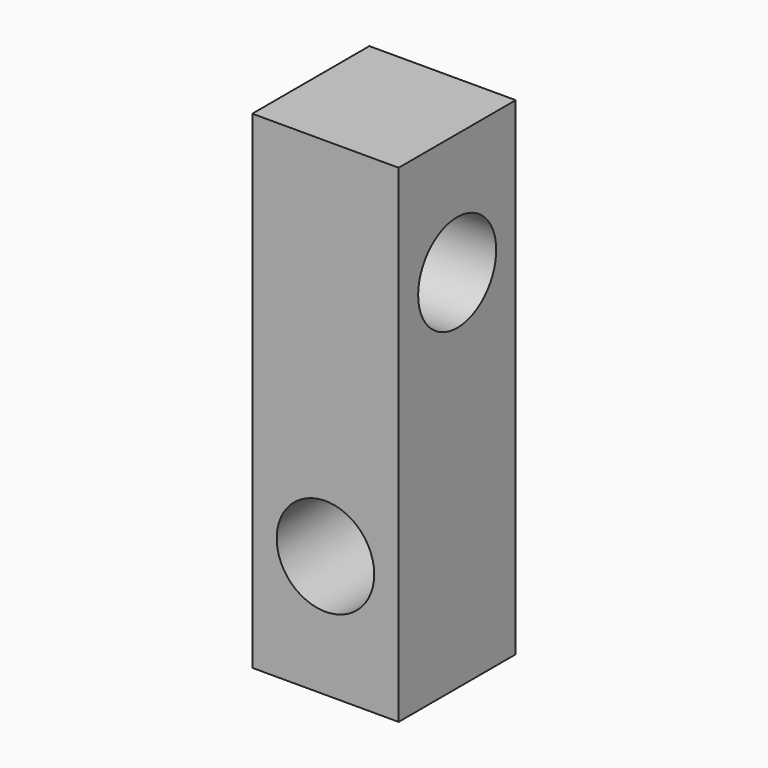
from build123d import *

# Parameters (mm, degrees)
F0_W     = 30
F0_H     = 100
F0_R     = 10
F2_DEPTH = 30
F3_D     = 20


with BuildPart() as f2:
    # F0 (on Front) → F2 (new body)
    with BuildSketch(Plane.XZ):
        with Locations((15, 50)):
            Rectangle(F0_W, F0_H)
        with Locations((15, 25)):
            Circle(F0_R, mode=Mode.SUBTRACT)
    extrude(amount=-F2_DEPTH)

    # F3 (through all)
    with Locations(Plane(origin=(0, 0, 0), x_dir=(0, 1, 0), z_dir=(-1, 0, 0))):
        with Locations((15, -75)):
            Hole(F3_D / 2)


solid = f2.part
